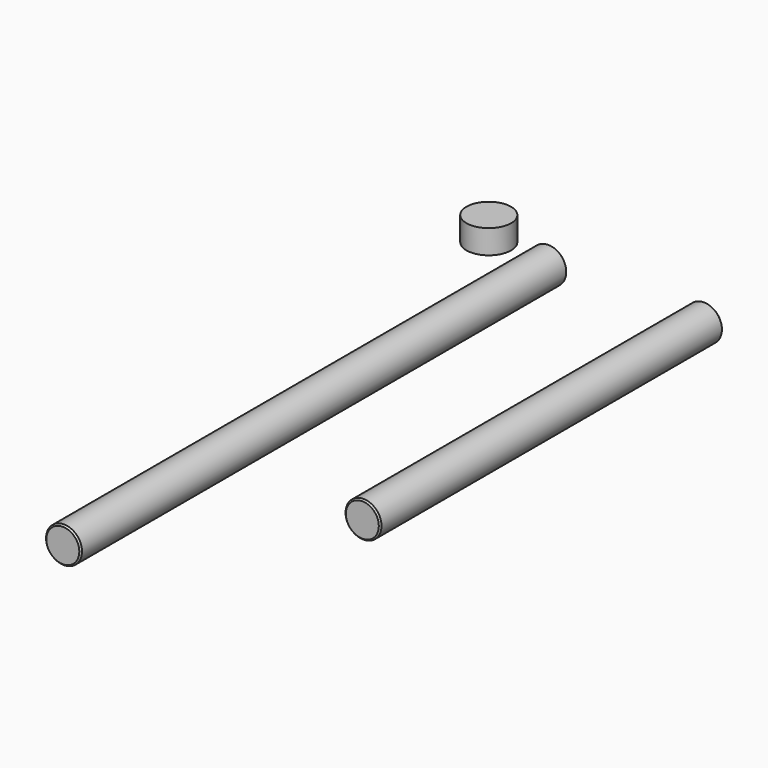
from build123d import *

# Parameters (mm, degrees)
F0_R     = 6
F1_DEPTH = 203
F2_SIZE  = 0.5
F3_DEPTH = 143
F4_SIZE  = 0.5
F5_R     = 7.45
F6_DEPTH = 8
F7_R     = 6.45
F8_DEPTH = 5


with BuildPart() as f1:
    # F0 (on Front) → F1 (new body)
    with BuildSketch(Plane.XZ):
        Circle(F0_R)
    extrude(amount=F1_DEPTH)

    # F2
    f2_edges = [f1.edges().sort_by_distance(p)[0] for p in [
        (-6, -203, 0),
        (-6, 0, 0),
    ]]
    chamfer(f2_edges, length=F2_SIZE)


with BuildPart() as f3:
    # F0 (on Front) → F3 (new body)
    with BuildSketch(Plane.XZ):
        with Locations((51.95038, 0)):
            Circle(F0_R)
    extrude(amount=F3_DEPTH)

    # F4
    f4_edges = [f3.edges().sort_by_distance(p)[0] for p in [
        (45.95038, -143, 0),
        (45.95038, 0, 0),
    ]]
    chamfer(f4_edges, length=F4_SIZE)


with BuildPart() as f6:
    # F5 (on Top) → F6 (new body)
    with BuildSketch(Plane.XY):
        with Locations((-20.252213, 0)):
            Circle(F5_R)
    extrude(amount=F6_DEPTH)

    # F7 (on face) → F8 (cut)
    with BuildSketch(Plane(origin=(0, 0, 0), x_dir=(1, 0, 0), z_dir=(0, 0, -1))):
        with Locations((-20.252213, 0)):
            Circle(F7_R)
    extrude(amount=-F8_DEPTH, mode=Mode.SUBTRACT)


solid = Compound([f1.part, f3.part, f6.part])
